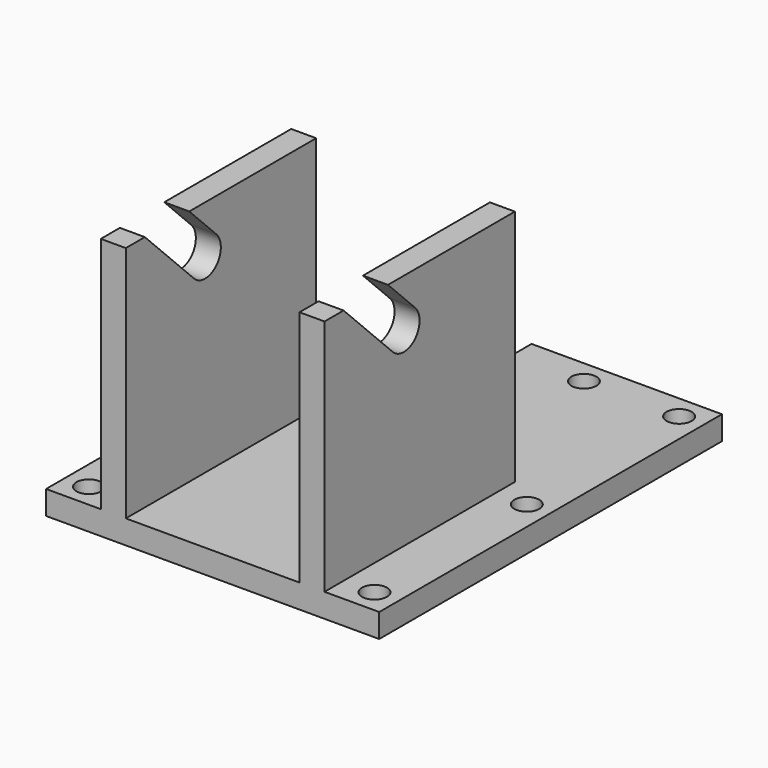
from build123d import *

# Parameters (mm, degrees)
SKETCH_W        = 70
SKETCH_H        = 50
PAD_DEPTH       = 5
SKETCH001_R     = 2.625
POCKET_DEPTH    = 5
SKETCH002_W     = 47
SKETCH002_H     = 50
PAD001_DEPTH    = 50
SKETCH003_W     = 36.5
SKETCH003_H     = 50
POCKET001_DEPTH = 50
POCKET002_DEPTH = 40
POCKET003_DEPTH = 50
SKETCH005_W     = 40
SKETCH005_H     = 5
PAD002_DEPTH    = 40
SKETCH006_R     = 2.625
POCKET004_DEPTH = 5
SKETCH007_W     = 30
SKETCH007_H     = 5
PAD003_DEPTH    = 10


with BuildPart() as part:
    # Sketch → Pad (new body)
    with BuildSketch(Plane.XY):
        Rectangle(SKETCH_W, SKETCH_H)
    extrude(amount=PAD_DEPTH)

    # Sketch001 (on Face6 of Pad) → Pocket (cut)
    with BuildSketch(Plane.XY.offset(5)):
        with Locations((-30, 20)):
            Circle(SKETCH001_R)
        with Locations((30, 20)):
            Circle(SKETCH001_R)
        with Locations((30, -20)):
            Circle(SKETCH001_R)
        with Locations((-30, -20)):
            Circle(SKETCH001_R)
    extrude(amount=-POCKET_DEPTH, mode=Mode.SUBTRACT)

    # Sketch002 (on Face5 of Pocket) → Pad001 (join)
    with BuildSketch(Plane.XY.offset(5)):
        Rectangle(SKETCH002_W, SKETCH002_H)
    extrude(amount=PAD001_DEPTH)

    # Sketch003 (on Face16 of Pad001) → Pocket001 (cut)
    with BuildSketch(Plane.XY.offset(55)):
        Rectangle(SKETCH003_W, SKETCH003_H)
    extrude(amount=-POCKET001_DEPTH, mode=Mode.SUBTRACT)

    # Sketch004 (on Face18 of Pocket001) → Pocket002 (cut)
    with BuildSketch(Plane.YZ.offset(23.5)):
        with BuildLine():
            Line((-8.332745, 55), (-1.252745, 47.92))
            ThreePointArc((-7.08, 42.08), (-1.246373, 42.086373), (-1.252745, 47.92))
            Line((-20, 55), (-7.08, 42.08))
            Line((-20, 55), (-8.332745, 55))
        make_face()
    extrude(amount=-POCKET002_DEPTH, mode=Mode.SUBTRACT)

    # Sketch004 (on Face18 of Pocket001) → Pocket003 (cut)
    with BuildSketch(Plane.YZ.offset(23.5)):
        with BuildLine():
            Line((-8.332745, 55), (-1.252745, 47.92))
            ThreePointArc((-7.08, 42.08), (-1.246373, 42.086373), (-1.252745, 47.92))
            Line((-20, 55), (-7.08, 42.08))
            Line((-20, 55), (-8.332745, 55))
        make_face()
    extrude(amount=-POCKET003_DEPTH, mode=Mode.SUBTRACT)

    # Sketch005 (on Face3 of Pocket003) → Pad002 (join)
    with BuildSketch(Plane(origin=(0, 25, 0), x_dir=(-1, 0, 0), z_dir=(0, 1, 0))):
        with Locations((-15, 2.5)):
            Rectangle(SKETCH005_W, SKETCH005_H)
    extrude(amount=PAD002_DEPTH)

    # Sketch006 (on Face21 of Pad002) → Pocket004 (cut)
    with BuildSketch(Plane.XY.offset(5)):
        with Locations((30, 60)):
            Circle(SKETCH006_R)
        with Locations((10, 60)):
            Circle(SKETCH006_R)
    extrude(amount=-POCKET004_DEPTH, mode=Mode.SUBTRACT)

    # Sketch007 (on Face3 of Pocket004) → Pad003 (join)
    with BuildSketch(Plane(origin=(0, 25, 0), x_dir=(-1, 0, 0), z_dir=(0, 1, 0))):
        with Locations((20, 2.5)):
            Rectangle(SKETCH007_W, SKETCH007_H)
    extrude(amount=PAD003_DEPTH)


solid = part.part
